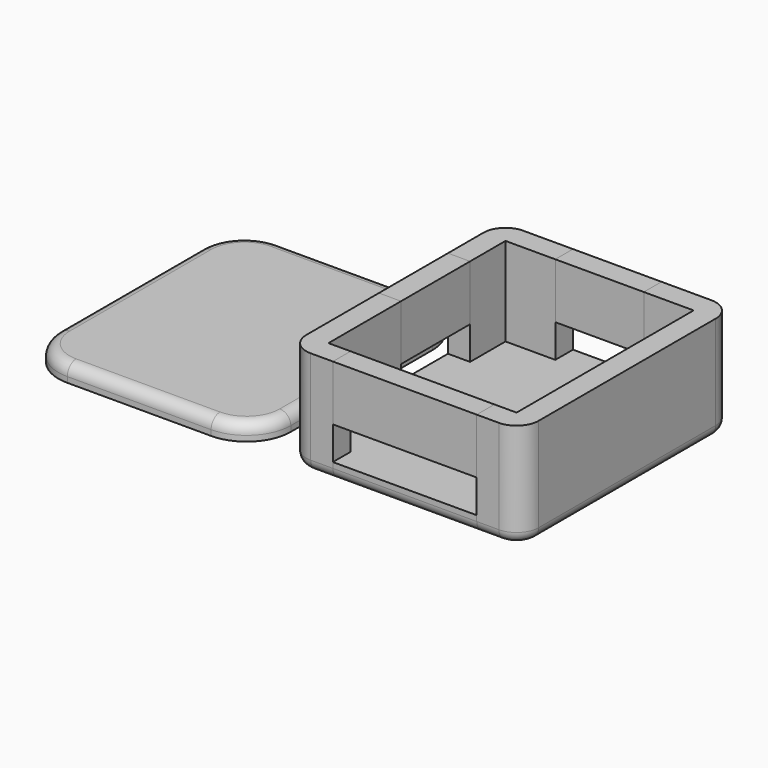
from build123d import *

# Parameters (mm, degrees)
F1_DEPTH = 9.5
F2_W     = 8
F2_H     = 2
F2_W_2   = 2
F2_H_2   = 7.8
F2_W_3   = 13
F3_DEPTH = 1.5
F5_START = 4.5
F4_W     = 8
F4_H     = 2
F5_DEPTH = 5
F4_W_2   = 2
F4_H_2   = 7.8
F4_W_3   = 13
F6_R     = 1
F6_2_R   = 1
F6_3_R   = 1
F6_4_R   = 1
F8_DEPTH = 1.5
F9_R     = 1


with BuildPart() as f1:
    # F0 (on Top) → F1 (new body)
    with BuildSketch(Plane.XY):
        with BuildLine():
            Line((8.5, 10), (8.5, -10))
            Line((8.5, -10), (6.5, -10))
            Line((6.5, -10), (6.5, -12))
            Line((6.5, -12), (8.5, -12))
            ThreePointArc((8.5, -12), (9.9142135624, -11.4142135624), (10.5, -10))
            Line((10.5, -10), (10.5, 10))
            ThreePointArc((10.5, 10), (9.9142135624, 11.4142135624), (8.5, 12))
            Line((8.5, 12), (4, 12))
            Line((4, 12), (4, 10))
            Line((4, 10), (8.5, 10))
        make_face()
    extrude(amount=F1_DEPTH)

    # F6
    f6_edges = [f1.edges().sort_by_distance(p)[0] for p in [
        (9.914214, 11.414214, 0),
    ]]
    fillet(f6_edges, radius=F6_R)


with BuildPart() as f1b:
    # F0 (on Top) → F1, piece 2 (new body)
    with BuildSketch(Plane.XY):
        with BuildLine():
            Line((-6.5, -12), (-6.5, -10))
            Line((-6.5, -10), (-8.5, -10))
            Line((-8.5, -10), (-8.5, -1.8))
            Line((-8.5, -1.8), (-10.5, -1.8))
            Line((-10.5, -1.8), (-10.5, -10))
            ThreePointArc((-10.5, -10), (-9.9142135624, -11.4142135624), (-8.5, -12))
            Line((-8.5, -12), (-6.5, -12))
        make_face()
    extrude(amount=F1_DEPTH)

    # F6#4
    f6_4_edges = [f1b.edges().sort_by_distance(p)[0] for p in [
        (-10.5, -5.9, 0),
    ]]
    fillet(f6_4_edges, radius=F6_4_R)


with BuildPart() as f1c:
    # F0 (on Top) → F1, piece 3 (new body)
    with BuildSketch(Plane.XY):
        with BuildLine():
            Line((-8.5, 10), (-4, 10))
            Line((-4, 10), (-4, 12))
            Line((-4, 12), (-8.5, 12))
            ThreePointArc((-8.5, 12), (-9.9142135624, 11.4142135624), (-10.5, 10))
            Line((-10.5, 10), (-10.5, 6))
            Line((-10.5, 6), (-8.5, 6))
            Line((-8.5, 6), (-8.5, 10))
        make_face()
    extrude(amount=F1_DEPTH)

    # F6#3
    f6_3_edges = [f1c.edges().sort_by_distance(p)[0] for p in [
        (-9.914214, 11.414214, 0),
    ]]
    fillet(f6_3_edges, radius=F6_3_R)


with BuildPart() as f3:
    # F2 (on Top) → F3 (new body)
    with BuildSketch(Plane.XY):
        Polygon((6.5, -10), (8.5, -10), (8.5, 10), (4, 10), (-4, 10), (-8.5, 10), (-8.5, 6), (-8.5, -1.8), (-8.5, -10), (-6.5, -10), align=None)
        with Locations((0, 11)):
            Rectangle(F2_W, F2_H)
        with Locations((-9.5, 2.1)):
            Rectangle(F2_W_2, F2_H_2)
        with Locations((0, -11)):
            Rectangle(F2_W_3, F2_H)
    extrude(amount=F3_DEPTH)

    # F6#2
    f6_2_edges = [f3.edges().sort_by_distance(p)[0] for p in [
        (0, 12, 0),
        (-10.5, 2.1, 0),
        (0, -12, 0),
    ]]
    fillet(f6_2_edges, radius=F6_2_R)


with BuildPart() as f5:
    # F4 (on Top) → F5 (new body)
    with BuildSketch(Plane.XY.offset(F5_START)):
        with Locations((0, 11)):
            Rectangle(F4_W, F4_H)
    extrude(amount=F5_DEPTH)


with BuildPart() as f5b:
    # F4 (on Top) → F5, piece 2 (new body)
    with BuildSketch(Plane.XY.offset(F5_START)):
        with Locations((-9.5, 2.1)):
            Rectangle(F4_W_2, F4_H_2)
    extrude(amount=F5_DEPTH)


with BuildPart() as f5c:
    # F4 (on Top) → F5, piece 3 (new body)
    with BuildSketch(Plane.XY.offset(F5_START)):
        with Locations((0, -11)):
            Rectangle(F4_W_3, F4_H)
    extrude(amount=F5_DEPTH)


with BuildPart() as f8:
    # F7 (on Top) → F8 (new body)
    with BuildSketch(Plane.XY):
        with BuildLine():
            Line((-13.5, -8), (-13.5, 8))
            ThreePointArc((-13.5, 8), (-14.6715728753, 10.8284271247), (-17.5, 12))
            Line((-17.5, 12), (-30.5, 12))
            ThreePointArc((-30.5, 12), (-33.3284271247, 10.8284271247), (-34.5, 8))
            Line((-34.5, 8), (-34.5, -8))
            ThreePointArc((-34.5, -8), (-33.3284271247, -10.8284271247), (-30.5, -12))
            Line((-30.5, -12), (-17.5, -12))
            ThreePointArc((-17.5, -12), (-14.6715728753, -10.8284271247), (-13.5, -8))
        make_face()
        with BuildLine():
            ThreePointArc((-15.5, -8), (-16.0857864376, -9.4142135624), (-17.5, -10))
            Line((-17.5, -10), (-30.5, -10))
            ThreePointArc((-30.5, -10), (-31.9142135624, -9.4142135624), (-32.5, -8))
            Line((-32.5, -8), (-32.5, 8))
            ThreePointArc((-32.5, 8), (-31.9142135624, 9.4142135624), (-30.5, 10))
            Line((-30.5, 10), (-17.5, 10))
            ThreePointArc((-17.5, 10), (-16.0857864376, 9.4142135624), (-15.5, 8))
            Line((-15.5, 8), (-15.5, -8))
        make_face(mode=Mode.SUBTRACT)
        with BuildLine():
            Line((-30.5, -10), (-17.5, -10))
            ThreePointArc((-17.5, -10), (-16.0857864376, -9.4142135624), (-15.5, -8))
            Line((-15.5, -8), (-15.5, 8))
            ThreePointArc((-15.5, 8), (-16.0857864376, 9.4142135624), (-17.5, 10))
            Line((-17.5, 10), (-30.5, 10))
            ThreePointArc((-30.5, 10), (-31.9142135624, 9.4142135624), (-32.5, 8))
            Line((-32.5, 8), (-32.5, -8))
            ThreePointArc((-32.5, -8), (-31.9142135624, -9.4142135624), (-30.5, -10))
        make_face()
    extrude(amount=F8_DEPTH)

    # F9
    f9_edges = [f8.edges().sort_by_distance(p)[0] for p in [
        (-24, -12, 1.5),
        (-14.671573, -10.828427, 1.5),
        (-13.5, 0, 1.5),
        (-14.671573, 10.828427, 1.5),
        (-24, 12, 1.5),
        (-33.328427, 10.828427, 1.5),
        (-34.5, 0, 1.5),
        (-33.328427, -10.828427, 1.5),
    ]]
    fillet(f9_edges, radius=F9_R)


solid = Compound([f1.part, f1b.part, f1c.part, f3.part, f5.part, f5b.part, f5c.part, f8.part])
